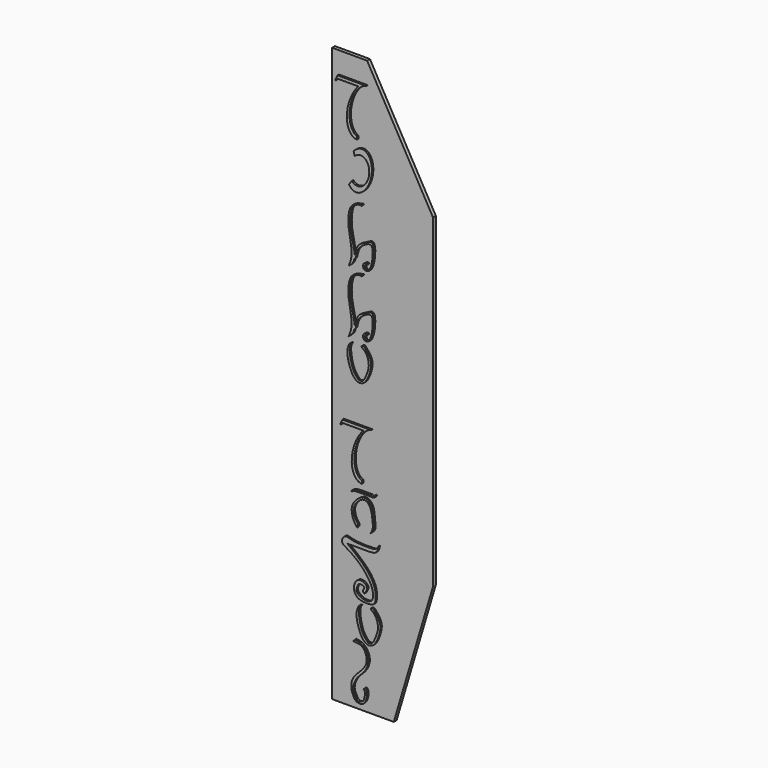
from build123d import *

# Parameters (mm, degrees)
F1_DEPTH = 2
F2_W     = 40
F2_H     = 35.7144698501
F3_DEPTH = 1
F6_DEPTH = 1


with BuildPart() as f1:
    # F0 (on Front) → F1 (new body)
    with BuildSketch(Plane.XZ):
        Polygon((0, 200), (0, 0), (40, 0), (57.0436641574, 0), (57.0436641574, 166.6676832028), (19.7868949101, 232.5990796089), (0, 232.5990796089), align=None)
        Polygon((40, 0), (0, 0), (0, -91.3930758834), (34.847214818, -91.3930758834), (57.0436641574, -16.6981015354), (57.0436641574, 0), align=None)
    extrude(amount=F1_DEPTH)

    # F2 (on face) → F3 (join)
    with BuildSketch(Plane(origin=(0, 0, 0), x_dir=(-1, 0, 0), z_dir=(0, 1, 0))):
        with Locations((-20, 17.857234925)):
            Rectangle(F2_W, F2_H)
    extrude(amount=F3_DEPTH)

    # F5 (on face) → F6 (join)
    with BuildSketch(Plane.XZ.offset(2)):
        with BuildLine():
            Line((7.0905264678, 220.5278199643), (3.8642063845, 220.5278199643))
            Line((3.8642063845, 220.5278199643), (2.5705423417, 217.833004567))
            Line((2.5705423417, 217.833004567), (2.9508444352, 217.6504380193))
            Line((2.9508444352, 217.6504380193), (3.5343133649, 218.8658548537))
            Line((3.5343133649, 218.8658548537), (15.7429002159, 218.8658548537))
            add(Edge.make_bspline(
                [(17.658172684, 220.5278199643), (16.6804883842, 219.8337986263), (15.7429002159, 218.8658548537)],
                knots=[0.638899142, 0.638899142, 0.638899142, 0.846667937, 0.846667937, 0.846667937], degree=2, weights=[1, 0.994608867, 1]))
            Line((17.658172684, 220.5278199643), (7.0905264678, 220.5278199643))
        make_face()
        with BuildLine():
            Line((20.1967017132, 220.5278199643), (17.658172684, 220.5278199643))
            add(Edge.make_bspline(
                [(17.658172684, 220.5278199643), (16.6804883842, 219.8337986263), (15.7429002159, 218.8658548537)],
                knots=[0.638899142, 0.638899142, 0.638899142, 0.846667937, 0.846667937, 0.846667937], degree=2, weights=[1, 0.994608867, 1]))
            add(Edge.make_bspline(
                [(15.7429002159, 218.8658548537), (-8.6987933112, 193.6328305445), (14.8502426987, 192.117467704)],
                knots=[0.846667937, 0.846667937, 0.846667937, 3.2831460951, 3.2831460951, 3.2831460951], degree=2, weights=[1, 0.3452988924, 1]))
            Line((14.8502426987, 192.117467704), (14.8502426987, 193.8335746007))
            add(Edge.make_bspline(
                [(20.1967017132, 220.5278199643), (13.4610376991, 219.4409382836), (11.1107241096, 207.706097061), (8.7604105202, 195.9712558385), (14.8502426987, 193.8335746007)],
                knots=[0.2259031223, 0.2259031223, 0.2259031223, 1.658870786, 1.658870786, 3.0918384497, 3.0918384497, 3.0918384497], degree=2, weights=[1, 0.7541195843, 1, 0.7541195843, 1]))
        make_face()
        with BuildLine():
            Line((11.98013376, 170.6910666455), (10.2839322081, 168.3810014422))
            add(Edge.make_bspline(
                [(10.2839322081, 168.3810014422), (19.4364606361, 153.127723739), (23.076394492, 176.971010363), (26.7163283478, 200.814296987), (12.9430971321, 185.7997881496)],
                knots=[2.589616746, 2.589616746, 2.589616746, 4.8480636643, 4.8480636643, 7.1065105827, 7.1065105827, 7.1065105827], degree=2, weights=[1, 0.4273619922, 1, 0.4273619922, 1]))
            Line((12.9430971321, 185.7997881496), (13.615047999, 183.6086139976))
            add(Edge.make_bspline(
                [(11.98013376, 170.6910666455), (19.7707789111, 161.5355697766), (21.7104698505, 176.8611746064), (23.6501607898, 192.1867794361), (13.615047999, 183.6086139976)],
                knots=[2.6540799085, 2.6540799085, 2.6540799085, 4.8418422709, 4.8418422709, 7.0296046332, 7.0296046332, 7.0296046332], degree=2, weights=[1, 0.4590407325, 1, 0.4590407325, 1]))
        make_face()
        with BuildLine():
            add(Edge.make_bspline(
                [(16.9798135494, 160.6844544485), (17.4374839397, 160.7766401378), (18.2959024993, 160.9495460145), (17.550744646, 159.7484616316), (16.6596597718, 160.4328506198), (13.583544721, 159.3733743648), (11.6004086595, 157.097619012), (10.3687359451, 147.9862497186), (13.405045195, 136.8945912106), (13.5959238262, 134.7284966233), (13.6576411406, 134.0338198382)],
                knots=[0, 0, 0, 0, 0.069861459, 0.1310352346, 0.1967238463, 0.31708014, 0.4347804455, 0.6466403579, 0.8866774832, 1, 1, 1, 1], degree=3))
            add(Edge.make_bspline(
                [(16.9798135494, 160.6844544485), (15.7560269449, 160.3900435367), (13.3497093147, 159.8111467216), (10.4898594177, 157.1436715304), (9.2182894785, 147.7363301769), (12.953853791, 134.6883021617), (10.9929620799, 129.8086881175), (10.1738460098, 127.7703449204)],
                knots=[0, 0, 0, 0, 0.145483338, 0.2860622268, 0.5163491028, 0.7979662926, 1, 1, 1, 1], degree=3))
            add(Edge.make_bspline(
                [(10.1738460098, 127.7703449204), (10.972031287, 128.4594627764), (12.4936338208, 129.7731470872), (13.0568042059, 131.0313680241), (13.2978968059, 132.1217075065)],
                knots=[0, 0, 0, 0, 0.0471409029, 0.090792087, 0.090792087, 0.090792087, 0.090792087], degree=3))
            add(Edge.make_bspline(
                [(13.2978968059, 132.1217075065), (13.417446271, 132.6623690695), (13.5297005325, 133.3223843638), (13.6576411406, 134.0338198382)],
                knots=[0.090792087, 0.090792087, 0.090792087, 0.090792087, 0.1124371964, 0.1124371964, 0.1124371964, 0.1124371964], degree=3))
        make_face()
        with BuildLine():
            add(Edge.make_bspline(
                [(13.6576411406, 134.0338198382), (13.968119219, 135.7602859082), (14.8619126258, 140.2625400448), (19.231547941, 142.0514566395), (25.0498150631, 145.677277464), (24.2853352046, 132.7011906465), (21.628917705, 128.1297963783), (18.1773232253, 128.6482116592), (18.0368101265, 132.0557943537), (21.3431183279, 132.894501579), (20.4763682576, 131.2085144457), (19.1548884229, 131.6945888487), (19.5658761033, 128.6583080884), (21.7001816335, 129.1727020136), (23.5418611572, 132.734914139), (24.3703456035, 143.09068015), (20.1405085495, 142.0261080325), (15.4933462351, 138.8456384588), (14.5865195338, 135.3377921249), (14.1419339661, 133.1012725904)],
                knots=[0.1124371964, 0.1124371964, 0.1124371964, 0.1124371964, 0.1649641625, 0.2289758319, 0.2841740278, 0.3722554384, 0.4349679341, 0.4772364321, 0.5214602977, 0.5618696412, 0.5886607671, 0.6147731344, 0.6544486279, 0.6864815372, 0.7428082507, 0.8247530624, 0.8693073513, 0.9333220228, 1, 1, 1, 1], degree=3))
            add(Edge.make_bspline(
                [(13.2978968059, 132.1217075065), (13.417446271, 132.6623690695), (13.5297005325, 133.3223843638), (13.6576411406, 134.0338198382)],
                knots=[0.090792087, 0.090792087, 0.090792087, 0.090792087, 0.1124371964, 0.1124371964, 0.1124371964, 0.1124371964], degree=3))
            add(Edge.make_bspline(
                [(14.1419339661, 133.1012725904), (13.8605882461, 132.7747508958), (13.579242526, 132.4482292011), (13.2978968059, 132.1217075065)],
                knots=[0, 0, 0, 0, 1.2930376954, 1.2930376954, 1.2930376954, 1.2930376954], degree=3))
        make_face()
        with BuildLine():
            add(Edge.make_bspline(
                [(16.9798135494, 125.6844431236), (17.4374839397, 125.7766288129), (18.2959024993, 125.9495346896), (17.550744646, 124.7484503067), (16.6596597718, 125.4328392949), (13.583544721, 124.3733630399), (11.6004086595, 122.0976076871), (10.3687359451, 112.9862383937), (13.405045195, 101.8945798857), (13.5959238262, 99.7284852984), (13.6576411406, 99.0338085134)],
                knots=[0, 0, 0, 0, 0.069861459, 0.1310352346, 0.1967238463, 0.31708014, 0.4347804455, 0.6466403579, 0.8866774832, 1, 1, 1, 1], degree=3))
            add(Edge.make_bspline(
                [(16.9798135494, 125.6844431236), (15.7560269449, 125.3900322118), (13.3497093147, 124.8111353967), (10.4898594177, 122.1436602055), (9.2182894785, 112.736318852), (12.953853791, 99.6882908368), (10.9929620799, 94.8086767926), (10.1738460098, 92.7703335956)],
                knots=[0, 0, 0, 0, 0.145483338, 0.2860622268, 0.5163491028, 0.7979662926, 1, 1, 1, 1], degree=3))
            add(Edge.make_bspline(
                [(10.1738460098, 92.7703335956), (10.972031287, 93.4594514515), (12.4936338208, 94.7731357624), (13.0568042059, 96.0313566992), (13.2978968059, 97.1216961816)],
                knots=[0, 0, 0, 0, 0.0471409029, 0.090792087, 0.090792087, 0.090792087, 0.090792087], degree=3))
            add(Edge.make_bspline(
                [(13.2978968059, 97.1216961816), (13.417446271, 97.6623577446), (13.5297005325, 98.3223730389), (13.6576411406, 99.0338085134)],
                knots=[0.090792087, 0.090792087, 0.090792087, 0.090792087, 0.1124371964, 0.1124371964, 0.1124371964, 0.1124371964], degree=3))
        make_face()
        with BuildLine():
            add(Edge.make_bspline(
                [(13.6576411406, 99.0338085134), (13.968119219, 100.7602745833), (14.8619126258, 105.2625287199), (19.231547941, 107.0514453146), (25.0498150631, 110.6772661391), (24.2853352046, 97.7011793216), (21.628917705, 93.1297850534), (18.1773232253, 93.6482003343), (18.0368101265, 97.0557830288), (21.3431183279, 97.8944902541), (20.4763682576, 96.2085031208), (19.1548884229, 96.6945775238), (19.5658761033, 93.6582967635), (21.7001816335, 94.1726906887), (23.5418611572, 97.7349028141), (24.3703456035, 108.0906688252), (20.1405085495, 107.0260967076), (15.4933462351, 103.8456271339), (14.5865195338, 100.3377808), (14.1419339661, 98.1012612656)],
                knots=[0.1124371964, 0.1124371964, 0.1124371964, 0.1124371964, 0.1649641625, 0.2289758319, 0.2841740278, 0.3722554384, 0.4349679341, 0.4772364321, 0.5214602977, 0.5618696412, 0.5886607671, 0.6147731344, 0.6544486279, 0.6864815372, 0.7428082507, 0.8247530624, 0.8693073513, 0.9333220228, 1, 1, 1, 1], degree=3))
            add(Edge.make_bspline(
                [(13.2978968059, 97.1216961816), (13.417446271, 97.6623577446), (13.5297005325, 98.3223730389), (13.6576411406, 99.0338085134)],
                knots=[0.090792087, 0.090792087, 0.090792087, 0.090792087, 0.1124371964, 0.1124371964, 0.1124371964, 0.1124371964], degree=3))
            add(Edge.make_bspline(
                [(14.1419339661, 98.1012612656), (13.8605882461, 97.7747395709), (13.579242526, 97.4482178762), (13.2978968059, 97.1216961816)],
                knots=[0, 0, 0, 0, 1.2930376954, 1.2930376954, 1.2930376954, 1.2930376954], degree=3))
        make_face()
        with BuildLine():
            add(Edge.make_bspline(
                [(12.0149422173, 90.1017852202), (11.5149780913, 89.4771007956), (10.0382552421, 87.6319968865), (11.992328013, 76.4826037153), (14.8527747411, 73.8320821246), (16.0490981971, 72.7235555723)],
                knots=[0, 0, 0, 0, 0.2294564884, 0.6777359048, 1, 1, 1, 1], degree=3))
            add(Edge.make_bspline(
                [(12.0149422173, 90.1017852202), (11.5899504233, 89.9594648085), (10.6293761296, 89.6377895883), (9.82079858, 87.3435059364), (8.7203864349, 84.074357196), (11.9391543939, 73.2834094798), (14.792840425, 72.0307439539), (15.8753618334, 71.5555559918)],
                knots=[0, 0, 0, 0, 0.1184262249, 0.2676691384, 0.461125332, 0.7955824999, 1, 1, 1, 1], degree=3))
            add(Edge.make_bspline(
                [(16.0490981971, 72.7235555723), (16.8354013647, 72.8079974292), (18.5280068082, 72.9897679631), (19.849095422, 75.9516104289), (22.008136317, 81.1190619969), (21.0595511669, 85.6911543979), (19.4920405986, 88.4911760807), (16.9157960465, 89.9841813122), (18.4413013582, 91.0257249002), (19.8684378226, 89.3365755371), (22.7424378538, 85.6412406194), (23.2551295402, 80.9893415478), (19.9141304763, 71.8871562587), (16.9977448978, 71.6477084661), (15.8753618334, 71.5555559918)],
                knots=[0, 0, 0, 0, 0.0662645921, 0.1426419401, 0.2477510851, 0.3420222557, 0.4229407924, 0.4895170501, 0.5321613594, 0.5931404649, 0.6876499758, 0.7852235025, 0.9173423757, 1, 1, 1, 1], degree=3))
        make_face()
        with BuildLine():
            Line((9.8438808593, 50.2346890647), (6.617560776, 50.2346890647))
            Line((6.617560776, 50.2346890647), (5.3238967332, 47.5398736674))
            Line((5.3238967332, 47.5398736674), (5.7041988267, 47.3573071197))
            Line((5.7041988267, 47.3573071197), (6.2876677564, 48.5727239541))
            Line((6.2876677564, 48.5727239541), (18.4962546074, 48.5727239541))
            add(Edge.make_bspline(
                [(20.4115270755, 50.2346890647), (19.4338427756, 49.5406677267), (18.4962546074, 48.5727239541)],
                knots=[0.638899142, 0.638899142, 0.638899142, 0.846667937, 0.846667937, 0.846667937], degree=2, weights=[1, 0.994608867, 1]))
            Line((20.4115270755, 50.2346890647), (9.8438808593, 50.2346890647))
        make_face()
        with BuildLine():
            Line((22.9500561047, 50.2346890647), (20.4115270755, 50.2346890647))
            add(Edge.make_bspline(
                [(20.4115270755, 50.2346890647), (19.4338427756, 49.5406677267), (18.4962546074, 48.5727239541)],
                knots=[0.638899142, 0.638899142, 0.638899142, 0.846667937, 0.846667937, 0.846667937], degree=2, weights=[1, 0.994608867, 1]))
            add(Edge.make_bspline(
                [(18.4962546074, 48.5727239541), (-5.9454389198, 23.339699645), (17.6035970902, 21.8243368044)],
                knots=[0.846667937, 0.846667937, 0.846667937, 3.2831460951, 3.2831460951, 3.2831460951], degree=2, weights=[1, 0.3452988924, 1]))
            Line((17.6035970902, 21.8243368044), (17.6035970902, 23.5404437011))
            add(Edge.make_bspline(
                [(22.9500561047, 50.2346890647), (16.2143920906, 49.147807384), (13.8640785011, 37.4129661614), (11.5137649117, 25.6781249389), (17.6035970902, 23.5404437011)],
                knots=[0.2259031223, 0.2259031223, 0.2259031223, 1.658870786, 1.658870786, 3.0918384497, 3.0918384497, 3.0918384497], degree=2, weights=[1, 0.7541195843, 1, 0.7541195843, 1]))
        make_face()
        with BuildLine():
            add(Edge.make_bspline(
                [(14.9939935391, -0.8638936952), (14.2860722495, 0.0476505586), (12.762940237, 2.0088886995), (11.4612354482, 6.8789464916), (12.611576537, 11.5147204341), (18.7940798292, 16.8907076934), (24.0465077415, 12.6611289167), (24.1201028932, 5.6269960416), (24.9885010139, 0.9710680563), (23.2112030149, -0.6214975227), (22.4009994154, -1.34748853)],
                knots=[0, 0, 0, 0, 0.1072772088, 0.2308128789, 0.354468681, 0.5031157078, 0.6307774792, 0.7809186949, 0.9001290374, 1, 1, 1, 1], degree=3))
            add(Edge.make_bspline(
                [(14.9939935391, -0.8638936952), (15.2882536345, -0.359228459), (15.942593737, 0.7629852137), (13.9870098641, 2.6979013436), (12.5757899136, 6.7181173643), (13.6974477368, 11.1973468277), (18.8470715379, 15.4516154027), (22.8876414945, 12.0393777922), (23.616916768, 5.6511497354), (24.0828863185, 1.3085021219), (22.924882515, -0.5201864013), (22.4009994154, -1.34748853)],
                knots=[0, 0, 0, 0, 0.0715774046, 0.1591651978, 0.273919972, 0.3947390971, 0.5284893746, 0.6420845581, 0.7859086501, 0.9031446705, 1, 1, 1, 1], degree=3))
        make_face()
        with BuildLine():
            add(Edge.make_bspline(
                [(11.6724413891, 16.350671377), (11.867409649, 16.5900481186), (12.3129674579, 17.1370919119), (13.9426301982, 18.0035770482), (19.1972437612, 17.9509902496), (22.9287087057, 17.9136467241)],
                knots=[0, 0, 0, 0, 0.1840258596, 0.4205513186, 1, 1, 1, 1], degree=3))
            add(Edge.make_bspline(
                [(11.6724413891, 16.350671377), (11.6449444005, 16.2196130256), (11.6174474119, 16.0885546741), (11.5899504233, 15.9574963227)],
                knots=[0, 0, 0, 0, 0.4017354637, 0.4017354637, 0.4017354637, 0.4017354637], degree=3))
            add(Edge.make_bspline(
                [(25.0098030154, 18.566395117), (25.1155297917, 18.4928899419), (25.343462557, 18.3344226322), (25.2192613965, 17.7696476367), (24.5879024131, 17.1150442943), (23.3619348643, 16.9017133259), (22.5547851315, 17.1927715257), (13.4772385798, 17.1631265843), (12.8810999297, 16.599219136), (12.2949340514, 16.4386010031), (11.8446176535, 16.131289857), (11.5899504233, 15.9574963227)],
                knots=[0, 0, 0, 0, 0.0609772986, 0.1314588865, 0.227751246, 0.3327331705, 0.4389625778, 0.7410890641, 0.8323554391, 0.9051920468, 1, 1, 1, 1], degree=3))
            add(Edge.make_bspline(
                [(22.9287087057, 17.9136467241), (23.1868017634, 17.6527002351), (23.7282996448, 17.1052156488), (25.1154080716, 17.820608833), (25.0410855902, 18.3454765733), (25.0098030154, 18.566395117)],
                knots=[0, 0, 0, 0, 0.3452822844, 0.7244271782, 1, 1, 1, 1], degree=3))
        make_face()
        with BuildLine():
            add(Edge.make_bspline(
                [(9.398703437, -10.5393461809), (14.1031908409, -10.6168238568), (21.4555598489, -10.7379091982), (26.2695420353, -10.1386082693), (26.8209636287, -7.4576327541), (27.0894868049, -6.1520907344)],
                knots=[0, 0, 0, 0, 0.476852837, 0.74524549, 1, 1, 1, 1], degree=3))
            add(Edge.make_bspline(
                [(27.0894868049, -6.1520907344), (26.6993028067, -6.742713018), (25.7689294596, -8.4876768643), (21.8056305997, -8.6653067875), (12.466371588, -8.6643165678), (7.7499843776, -6.189648127), (5.4586111664, -11.3590190914), (10.03233876, -13.1247531526), (16.1798365606, -18.0213015039), (17.9590390236, -19.6794784458), (20.498603982, -22.940402281)],
                knots=[0, 0, 0, 0, 0.0845195195, 0.1916174257, 0.3645245217, 0.4823106308, 0.5869024813, 0.7000337843, 0.84892382, 1, 1, 1, 1], degree=3))
            add(Edge.make_bspline(
                [(20.498603982, -22.940402281), (21.5234299167, -24.4567226876), (23.8726439113, -27.6772228657), (24.5347663839, -35.3664603559), (17.9488300494, -35.9692092636), (14.0635821564, -32.8754665374), (14.7082134818, -31.145972006)],
                knots=[0, 0, 0, 0, 0.2572481912, 0.5188018249, 0.7607255118, 1, 1, 1, 1], degree=3))
            add(Edge.make_bspline(
                [(14.7082134818, -31.145972006), (15.0056672571, -29.9682004961), (15.5850660971, -27.6740643866), (20.0757157888, -28.9933705754), (17.7098453705, -31.0282045299), (19.2051659241, -32.7420413602), (19.7880319007, -30.9826184001), (21.1411301222, -28.9642314472), (18.9966874027, -26.5736734319), (14.8854225429, -25.8920396761), (12.3648103697, -31.197621086), (14.4010566455, -35.5464905975), (17.900910452, -36.7764900086), (23.1677984126, -36.7335942756), (25.4558235734, -35.2985125259), (25.8546829709, -27.1963805903), (19.5243871805, -18.3058448936), (12.8714314245, -13.2029625971), (9.398703437, -10.5393461809)],
                knots=[0, 0, 0, 0, 0.0558359779, 0.1087607673, 0.1535683508, 0.1897096137, 0.2258508766, 0.2733540868, 0.3250424965, 0.3840569107, 0.4542689005, 0.5196618062, 0.5797158544, 0.6510240013, 0.6983118682, 0.782096755, 0.88625827, 1, 1, 1, 1], degree=3))
        make_face()
        with BuildLine():
            add(Edge.make_bspline(
                [(17.2149129212, -38.6889148504), (16.7149487952, -39.3135992749), (15.238225946, -41.1587031841), (17.1922987169, -52.3080963552), (20.052745445, -54.958617946), (21.2490689009, -56.0671444982)],
                knots=[0, 0, 0, 0, 0.2294564884, 0.6777359048, 1, 1, 1, 1], degree=3))
            add(Edge.make_bspline(
                [(17.2149129212, -38.6889148504), (16.7899211272, -38.831235262), (15.8293468335, -39.1529104822), (15.0207692839, -41.4471941341), (13.9203571387, -44.7163428746), (17.1391250978, -55.5072905907), (19.9928111289, -56.7599561167), (21.0753325373, -57.2351440787)],
                knots=[0, 0, 0, 0, 0.1184262249, 0.2676691384, 0.461125332, 0.7955824999, 1, 1, 1, 1], degree=3))
            add(Edge.make_bspline(
                [(21.2490689009, -56.0671444982), (22.0353720686, -55.9827026414), (23.7279775121, -55.8009321075), (25.0490661259, -52.8390896417), (27.2081070208, -47.6716380736), (26.2595218708, -43.0995456726), (24.6920113025, -40.2995239898), (22.1157667503, -38.8065187583), (23.6412720621, -37.7649751703), (25.0684085265, -39.4541245335), (27.9424085576, -43.1494594511), (28.4551002441, -47.8013585228), (25.1141011802, -56.9035438118), (22.1977156016, -57.1429916044), (21.0753325373, -57.2351440787)],
                knots=[0, 0, 0, 0, 0.0662645921, 0.1426419401, 0.2477510851, 0.3420222557, 0.4229407924, 0.4895170501, 0.5321613594, 0.5931404649, 0.6876499758, 0.7852235025, 0.9173423757, 1, 1, 1, 1], degree=3))
        make_face()
        with BuildLine():
            add(Edge.make_bspline(
                [(13.6634772643, -56.8984784186), (14.8466359552, -57.071842096), (17.1667408444, -57.4117664434), (19.9848300788, -59.9499483574), (21.4175690936, -63.2572771474), (21.391777349, -67.0682573043), (19.0926875267, -71.5612017664), (15.3766918643, -74.6748186697), (13.5492098571, -77.6665390185), (12.2473151903, -81.9592004466), (14.1773760808, -84.9885418226), (14.414049685, -86.2646177411), (15.9151945263, -87.0151892304)],
                knots=[0, 0, 0, 0, 0.0963660702, 0.1942529094, 0.290688859, 0.3894973755, 0.5044178222, 0.6173150292, 0.7144930507, 0.8205080598, 0.9117157232, 1, 1, 1, 1], degree=3))
            add(Edge.make_bspline(
                [(18.4483751655, -80.0723955035), (18.7957749649, -79.7075143237), (19.5056795982, -78.9618868382), (20.7863480039, -80.2797077072), (20.4811004941, -84.4256719095), (18.9446944334, -87.1292393942), (16.9538524365, -88.2489400992), (13.571814727, -87.4052496406), (12.3973027411, -84.2267792101), (11.4735383845, -82.0038257486), (11.6867694294, -77.7532653785), (13.9936080627, -74.1788247342), (17.7363008585, -70.9840040547), (20.4654665829, -67.0382664226), (20.3816479836, -63.1351351184), (18.9118280106, -59.8570596953), (16.5161877184, -57.9859059608), (11.4477105271, -58.2339012282), (13.8020517192, -57.2966953465), (13.6634772643, -56.8984784186)],
                knots=[0, 0, 0, 0, 0.0386016582, 0.0764521439, 0.1449690627, 0.2046377178, 0.2532507888, 0.3125512479, 0.3727249327, 0.4258012549, 0.493476368, 0.563057312, 0.6386397559, 0.7117149788, 0.7770382338, 0.8393685873, 0.9011597021, 0.9613899765, 1, 1, 1, 1], degree=3))
            add(Edge.make_bspline(
                [(15.9151945263, -87.0151892304), (16.7243411861, -86.8261252579), (18.3700603916, -86.4415890221), (19.2069473466, -84.0268525918), (19.5674654231, -80.6120320827), (18.7437428057, -80.2148247508), (18.4483751655, -80.0723955035)],
                knots=[0, 0, 0, 0, 0.2588330446, 0.5264391903, 0.8301921837, 1, 1, 1, 1], degree=3))
        make_face()
    extrude(amount=F6_DEPTH)


solid = f1.part
